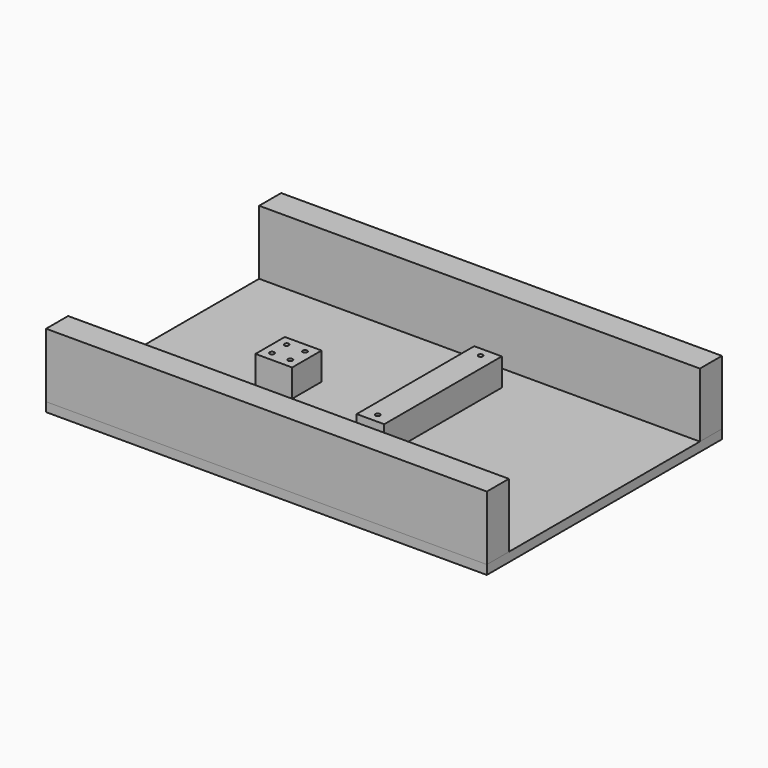
from build123d import *

# Parameters (mm, degrees)
F0_W     = 609.6
F0_H     = 406.4
F1_DEPTH = 12.7
F2_W     = 609.6
F2_H     = 38.1
F3_DEPTH = 88.9
F4_W     = 50.8
F4_H     = 50.8
F4_R     = 3.175
F5_DEPTH = 38.1
F6_W     = 38.1
F6_H     = 203.2
F6_R     = 3.175
F7_DEPTH = 38.1


with BuildPart() as f1:
    # F0 (on Top) → F1 (new body)
    with BuildSketch(Plane.XY):
        Rectangle(F0_W, F0_H)
    extrude(amount=F1_DEPTH)

    # F6 (on face) → F7 (join)
    with BuildSketch(Plane.XY.offset(12.7)):
        with Locations((39.910262, 28.3112)):
            Rectangle(F6_W, F6_H)
        with Locations((39.910262, -60.5888)):
            Circle(F6_R, mode=Mode.SUBTRACT)
        with Locations((39.910262, 117.2112)):
            Circle(F6_R, mode=Mode.SUBTRACT)
    extrude(amount=F7_DEPTH)


with BuildPart() as f3:
    # F2 (on face) → F3 (new body)
    with BuildSketch(Plane.XY.offset(12.7)):
        with Locations((0, 184.15)):
            Rectangle(F2_W, F2_H)
        with Locations((0, -184.15)):
            Rectangle(F2_W, F2_H)
    extrude(amount=F3_DEPTH)


with BuildPart() as f5:
    # F4 (on face) → F5 (new body)
    with BuildSketch(Plane.XY.offset(12.7)):
        with Locations((-127, -6.35)):
            Rectangle(F4_W, F4_H)
        with Locations((-139.7, -19.05)):
            Circle(F4_R, mode=Mode.SUBTRACT)
        with Locations((-114.3, -19.05)):
            Circle(F4_R, mode=Mode.SUBTRACT)
        with Locations((-139.7, 6.35)):
            Circle(F4_R, mode=Mode.SUBTRACT)
        with Locations((-114.3, 6.35)):
            Circle(F4_R, mode=Mode.SUBTRACT)
    extrude(amount=F5_DEPTH)


solid = Compound([f1.part, f3.part, f5.part])
